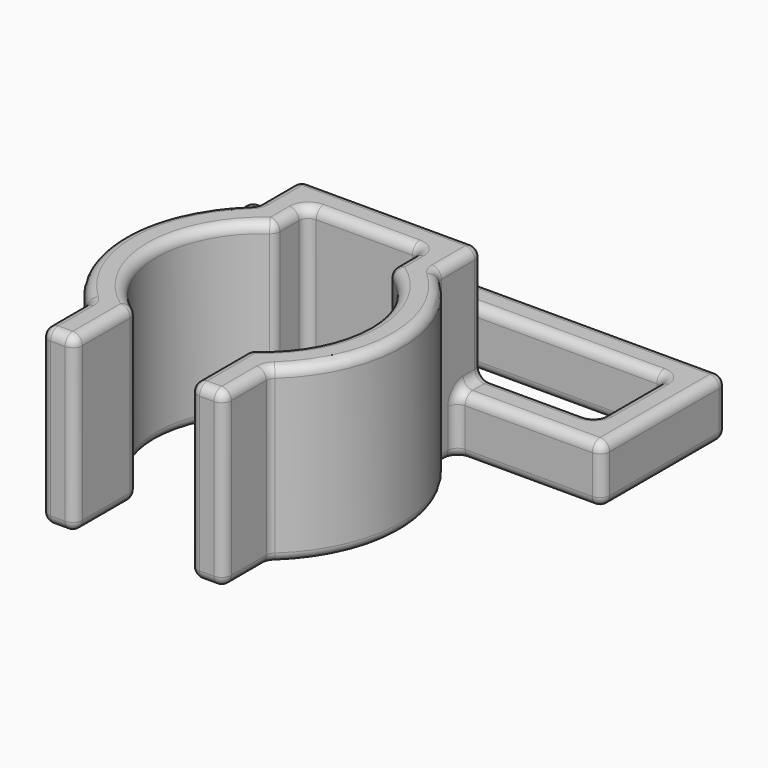
from build123d import *

# Parameters (mm, degrees)
F1_DEPTH = 6
F2_DEPTH = 18
F3_R     = 1


with BuildPart() as f1:
    # F0 (on Top) → F1 (new body)
    with BuildSketch(Plane.XY):
        with BuildLine():
            ThreePointArc((-6, -9.2195444573), (-11, 0), (-6, 9.2195444573))
            Line((-6, 9.2195444573), (-6, 13.2195444573))
            Line((-6, 13.2195444573), (-9.5, 13.2195444573))
            Line((-9.5, 13.2195444573), (-9.5, 10.9544511501))
            ThreePointArc((-9.5, 10.9544511501), (-14.5, 0), (-9.5, -10.9544511501))
            Line((-9.5, -10.9544511501), (-9.5, -16.9544511501))
            Line((-9.5, -16.9544511501), (-6, -16.9544511501))
            Line((-6, -16.9544511501), (-6, -9.2195444573))
        make_face()
        with BuildLine():
            Line((9.5, 13.2195444573), (6, 13.2195444573))
            Line((6, 13.2195444573), (6, 9.2195444573))
            ThreePointArc((6, 9.2195444573), (11, 0), (6, -9.2195444573))
            Line((6, -9.2195444573), (6, -16.9544511501))
            Line((6, -16.9544511501), (9.5, -16.9544511501))
            Line((9.5, -16.9544511501), (9.5, -10.9544511501))
            ThreePointArc((9.5, -10.9544511501), (14.5, 0), (9.5, 10.9544511501))
            Line((9.5, 10.9544511501), (9.5, 13.2195444573))
        make_face()
        Polygon((-24.75, 13.2195444573), (-9.5, 13.2195444573), (-9.5, 16.7195444573), (-21.25, 16.7195444573), (-21.25, 25.9695444573), (21.25, 25.9695444573), (21.25, 16.7195444573), (9.5, 16.7195444573), (9.5, 13.2195444573), (24.75, 13.2195444573), (24.75, 29.4695444573), (-24.75, 29.4695444573), align=None)
        Polygon((-9.5, 13.2195444573), (-6, 13.2195444573), (6, 13.2195444573), (9.5, 13.2195444573), (9.5, 16.7195444573), (-9.5, 16.7195444573), align=None)
    extrude(amount=F1_DEPTH)

    # F0 (on Top) → F2 (join)
    with BuildSketch(Plane.XY):
        with BuildLine():
            Line((9.5, 13.2195444573), (6, 13.2195444573))
            Line((6, 13.2195444573), (6, 9.2195444573))
            ThreePointArc((6, 9.2195444573), (11, 0), (6, -9.2195444573))
            Line((6, -9.2195444573), (6, -16.9544511501))
            Line((6, -16.9544511501), (9.5, -16.9544511501))
            Line((9.5, -16.9544511501), (9.5, -10.9544511501))
            ThreePointArc((9.5, -10.9544511501), (14.5, 0), (9.5, 10.9544511501))
            Line((9.5, 10.9544511501), (9.5, 13.2195444573))
        make_face()
        with BuildLine():
            ThreePointArc((-6, -9.2195444573), (-11, 0), (-6, 9.2195444573))
            Line((-6, 9.2195444573), (-6, 13.2195444573))
            Line((-6, 13.2195444573), (-9.5, 13.2195444573))
            Line((-9.5, 13.2195444573), (-9.5, 10.9544511501))
            ThreePointArc((-9.5, 10.9544511501), (-14.5, 0), (-9.5, -10.9544511501))
            Line((-9.5, -10.9544511501), (-9.5, -16.9544511501))
            Line((-9.5, -16.9544511501), (-6, -16.9544511501))
            Line((-6, -16.9544511501), (-6, -9.2195444573))
        make_face()
        Polygon((-9.5, 13.2195444573), (-6, 13.2195444573), (6, 13.2195444573), (9.5, 13.2195444573), (9.5, 16.7195444573), (-9.5, 16.7195444573), align=None)
    extrude(amount=F2_DEPTH)

    # F3
    f3_edges = [f1.edges().sort_by_distance(p)[0] for p in [
        (6, 11.219544, 18),
        (-17.125, 13.219544, 6),
        (9.5, -16.954451, 9),
        (-14.5, 0, 18),
        (6, 13.219544, 9),
        (-6, -13.086998, 18),
        (17.125, 13.219544, 6),
        (-11, 0, 18),
        (6, -13.086998, 0),
        (-9.5, 13.836998, 18),
        (-6, -16.954451, 9),
        (-9.5, -16.954451, 9),
        (-24.75, 13.219544, 3),
        (0, 29.469544, 6),
        (-6, 11.219544, 18),
        (24.75, 21.344544, 6),
        (6, -16.954451, 9),
        (0, 25.969544, 0),
        (-24.75, 21.344544, 0),
        (-9.5, -13.954451, 18),
        (0, 25.969544, 6),
        (-24.75, 21.344544, 6),
        (-11, 0, 0),
        (9.5, -13.954451, 18),
        (11, 0, 18),
        (-21.25, 21.344544, 6),
        (-14.5, 0, 0),
        (6, 11.219544, 0),
        (21.25, 21.344544, 0),
        (14.5, 0, 18),
        (-7.75, -16.954451, 18),
        (-9.5, -13.954451, 0),
        (11, 0, 0),
        (17.125, 13.219544, 0),
        (6, -13.086998, 18),
        (9.5, 13.836998, 18),
        (15.375, 16.719544, 6),
        (-6, 13.219544, 9),
        (9.5, -10.954451, 9),
        (21.25, 25.969544, 3),
        (21.25, 16.719544, 3),
        (-21.25, 16.719544, 3),
        (0, 29.469544, 0),
        (-17.125, 13.219544, 0),
        (-6, -13.086998, 0),
        (-21.25, 25.969544, 3),
        (14.5, 0, 0),
        (-7.75, -16.954451, 0),
        (0, 13.219544, 0),
        (24.75, 13.219544, 3),
        (-6, -9.219544, 9),
        (6, -9.219544, 9),
        (7.75, -16.954451, 18),
        (-9.5, -10.954451, 9),
        (0, 16.719544, 0),
        (-9.5, 10.954451, 9),
        (9.5, 10.954451, 9),
        (-9.5, 16.719544, 12),
        (6, 9.219544, 9),
        (24.75, 29.469544, 3),
        (7.75, -16.954451, 0),
        (24.75, 21.344544, 0),
        (0, 16.719544, 18),
        (-24.75, 29.469544, 3),
        (-6, 9.219544, 9),
        (-9.5, 13.219544, 3),
        (9.5, -13.954451, 0),
        (-6, 11.219544, 0),
        (-21.25, 21.344544, 0),
        (0, 13.219544, 18),
        (21.25, 21.344544, 6),
        (-9.5, 14.969544, 6),
        (9.5, 14.969544, 6),
        (-15.375, 16.719544, 6),
        (9.5, 12.086998, 0),
        (-9.5, 12.086998, 0),
        (9.5, 13.219544, 3),
        (9.5, 16.719544, 12),
    ]]
    fillet(f3_edges, radius=F3_R)


solid = f1.part
